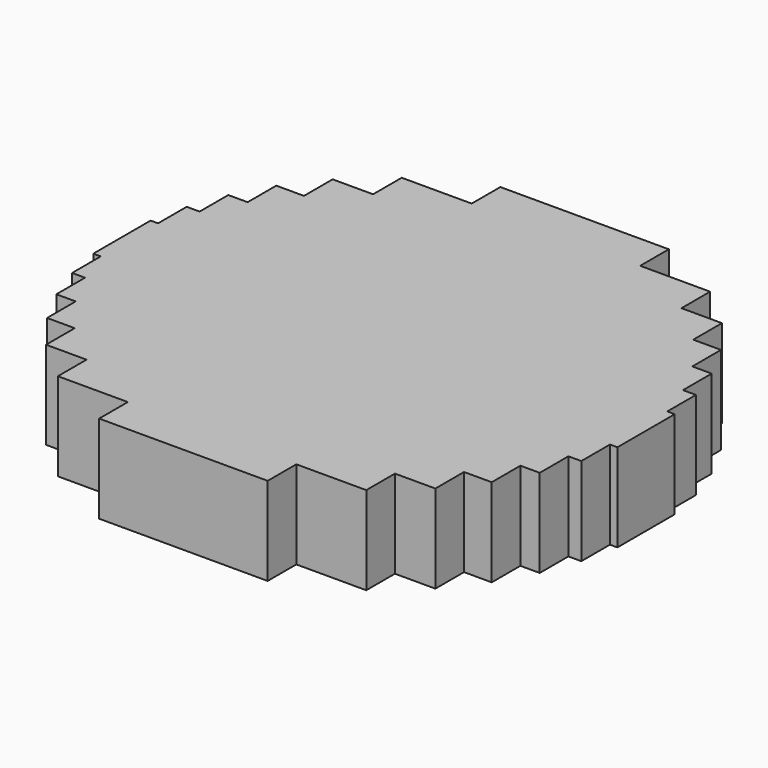
from build123d import *

# Parameters (mm, degrees)
F0_W     = 13.951736
F0_H     = 20.6375
F0_W_2   = 83.132682
F1_DEPTH = 50.8
F2_W     = 129.48776
F2_H     = 20.6375
F3_DEPTH = 50.8


with BuildPart() as f1:
    # F0 (on Top) → F1 (new body)
    with BuildSketch(Plane.XY):
        Polygon((-150.996204, 0), (-31.4737, 0), (31.4737, 0), (31.4737, 20.6375), (-22.181449, 20.6375), (-146.704241, 20.6375), (-150.996204, 20.6375), align=None)
        Polygon((31.4737, 0), (-31.4737, 0), (-31.4737, -20.6375), (22.181449, -20.6375), (146.704241, -20.6375), (150.996204, -20.6375), (150.996204, 0), align=None)
        Polygon((-31.4737, -20.6375), (-31.4737, 0), (-150.996204, 0), (-150.996204, -20.6375), (-146.704241, -20.6375), align=None)
        Polygon((31.4737, 20.6375), (31.4737, 0), (150.996204, 0), (150.996204, 20.6375), (146.704241, 20.6375), align=None)
        Polygon((22.181449, -20.6375), (-31.4737, -20.6375), (-146.704241, -20.6375), (-146.704241, -41.275), (-139.257324, -41.275), (-70.105411, -41.275), (22.181449, -41.275), align=None)
        Polygon((-22.181449, 20.6375), (31.4737, 20.6375), (146.704241, 20.6375), (146.704241, 41.275), (139.257324, 41.275), (70.105411, 41.275), (-22.181449, 41.275), align=None)
        Polygon((146.704241, -20.6375), (22.181449, -20.6375), (22.181449, -41.275), (139.257324, -41.275), (146.704241, -41.275), align=None)
        Polygon((-146.704241, 20.6375), (-22.181449, 20.6375), (-22.181449, 41.275), (-139.257324, 41.275), (-146.704241, 41.275), align=None)
        Polygon((139.257324, -41.275), (22.181449, -41.275), (-70.105411, -41.275), (-70.105411, -61.9125), (-32.869801, -61.9125), (96.617959, -61.9125), (128.10643, -61.9125), (139.257324, -61.9125), align=None)
        Polygon((-139.257324, 41.275), (-22.181449, 41.275), (70.105411, 41.275), (70.105411, 61.9125), (32.869801, 61.9125), (-96.617959, 61.9125), (-128.10643, 61.9125), (-139.257324, 61.9125), align=None)
        Polygon((-70.105411, -61.9125), (-70.105411, -41.275), (-139.257324, -41.275), (-139.257324, -61.9125), (-128.10643, -61.9125), align=None)
        Polygon((70.105411, 41.275), (139.257324, 41.275), (139.257324, 61.9125), (128.10643, 61.9125), (70.105411, 61.9125), align=None)
        Polygon((-32.869801, -61.9125), (-70.105411, -61.9125), (-128.10643, -61.9125), (-128.10643, -82.55), (-112.152128, -82.55), (-32.869801, -82.55), align=None)
        Polygon((32.869801, 61.9125), (70.105411, 61.9125), (128.10643, 61.9125), (128.10643, 82.55), (112.152128, 82.55), (32.869801, 82.55), align=None)
        Polygon((128.10643, -82.55), (128.10643, -61.9125), (96.617959, -61.9125), (96.617959, -82.55), (112.152128, -82.55), align=None)
        Polygon((-128.10643, 82.55), (-128.10643, 61.9125), (-96.617959, 61.9125), (-96.617959, 82.55), (-112.152128, 82.55), align=None)
        Polygon((55.90756, -82.55), (-32.869801, -82.55), (-112.152128, -82.55), (-112.152128, -103.1875), (-88.843285, -103.1875), (55.90756, -103.1875), align=None)
        Polygon((-55.90756, 82.55), (32.869801, 82.55), (112.152128, 82.55), (112.152128, 103.1875), (88.843285, 103.1875), (-55.90756, 103.1875), align=None)
        Polygon((112.152128, -82.55), (96.617959, -82.55), (55.90756, -82.55), (55.90756, -103.1875), (88.843285, -103.1875), (112.152128, -103.1875), align=None)
        Polygon((-112.152128, 82.55), (-96.617959, 82.55), (-55.90756, 82.55), (-55.90756, 103.1875), (-88.843285, 103.1875), (-112.152128, 103.1875), align=None)
        Polygon((88.843285, -103.1875), (55.90756, -103.1875), (-88.843285, -103.1875), (-88.843285, -123.825), (-48.542209, -123.825), (34.590473, -123.825), (48.542209, -123.825), (88.843285, -123.825), align=None)
        Polygon((-88.843285, 103.1875), (-55.90756, 103.1875), (88.843285, 103.1875), (88.843285, 123.825), (48.542209, 123.825), (-34.590473, 123.825), (-48.542209, 123.825), (-88.843285, 123.825), align=None)
        with Locations((41.566341, -134.14375)):
            Rectangle(F0_W, F0_H)
        with Locations((-6.975868, -134.14375)):
            Rectangle(F0_W_2, F0_H)
        with Locations((6.975868, 134.14375)):
            Rectangle(F0_W_2, F0_H)
        with Locations((-41.566341, 134.14375)):
            Rectangle(F0_W, F0_H)
    extrude(amount=F1_DEPTH)

    # F2 (on face) → F3 (join)
    with BuildSketch(Plane.XY.offset(50.8)):
        with Locations((31.874079, -72.23125)):
            Rectangle(F2_W, F2_H)
        with Locations((-31.874079, 72.23125)):
            Rectangle(F2_W, F2_H)
    extrude(amount=-F3_DEPTH)


solid = f1.part
